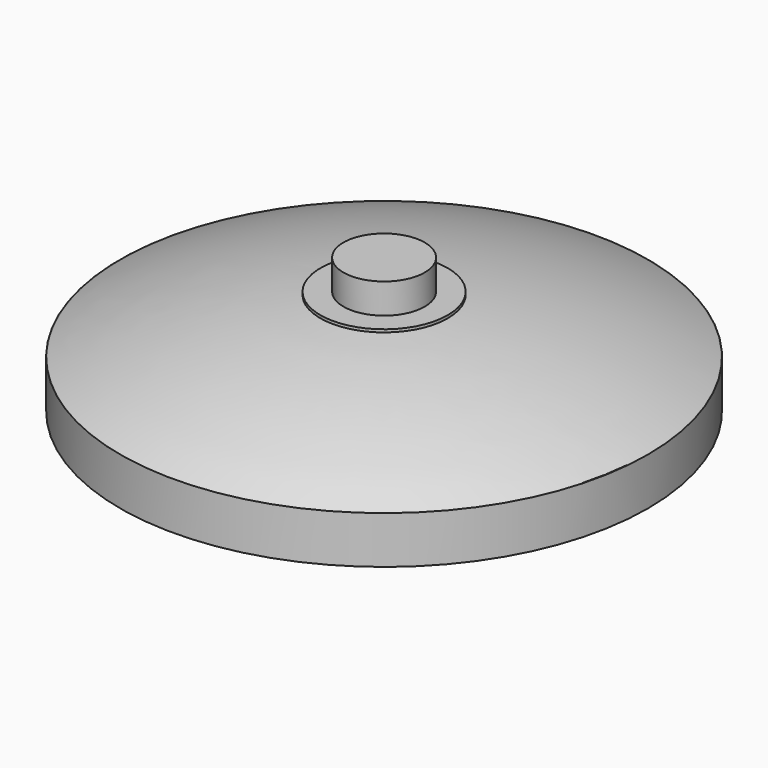
from build123d import *

# Parameters (mm, degrees)
F0_R      = 15.8369
F1_DEPTH  = 2.8448
F6_R      = 2.4384
F7_DEPTH  = 1.8034
F8_R      = 3.6576
F9_DEPTH  = 5.08
F10_T     = -0.889
F12_R     = 3.8227
F13_DEPTH = 6.2992
F14_R     = 1.016
F15_DEPTH = 6.858
F16_R     = 2.3876
F17_DEPTH = 5.1562
F18_R     = 3.8227
F19_DEPTH = 2.0574
F20_R     = 3.2258
F20_R_2   = 2.3876
F21_DEPTH = 2.0574


with BuildPart() as f1:
    # F0 (on Top) → F1 (new body)
    with BuildSketch(Plane.XY):
        Circle(F0_R)
    extrude(amount=-F1_DEPTH)

    # F2 (on Front) → F4 (revolve)
    with BuildSketch(Plane.XZ):
        with BuildLine():
            Line((0, 0), (0, 3.4544))
            ThreePointArc((0, 3.4544), (-8.094207, 2.617995), (-15.798872, 0))
            Line((-15.798872, 0), (0, 0))
        make_face()
    revolve(axis=Axis((0, 0, -5.96416), (0, 0, -1)))



with BuildPart() as f7:
    # F6 (on offset) → F7 (new body)
    with BuildSketch(Plane.XY.offset(3.4544)):
        Circle(F6_R)
    extrude(amount=F7_DEPTH)


with BuildPart() as f1_1:
    add(f1.part)

    add(f7.part)  # F9 merges F7
    # F8 (on offset) → F9 (join)
    with BuildSketch(Plane.XY.offset(3.4544)):
        Circle(F8_R)
    extrude(amount=-F9_DEPTH)

    # F10
    f10_openings = [f1_1.faces().sort_by_distance(p)[0] for p in [
        (0, 0, -2.8448),
    ]]
    offset(amount=F10_T, openings=f10_openings)

    # F12 (on offset) → F13 (join)
    with BuildSketch(Plane(origin=(0, 0, -2.8448), x_dir=(1, 0, 0), z_dir=(0, 0, -1))):
        Circle(F12_R)
    extrude(amount=-F13_DEPTH)

    # F14 (on face) → F15 (cut)
    with BuildSketch(Plane(origin=(0, 0, -2.8448), x_dir=(1, 0, 0), z_dir=(0, 0, -1))):
        Circle(F14_R)
    extrude(amount=-F15_DEPTH, mode=Mode.SUBTRACT)

    # F16 (on face) → F17 (cut)
    with BuildSketch(Plane(origin=(0, 0, -2.8448), x_dir=(1, 0, 0), z_dir=(0, 0, -1))):
        Circle(F16_R)
    extrude(amount=-F17_DEPTH, mode=Mode.SUBTRACT)

    # F18 (on offset) → F19 (cut)
    with BuildSketch(Plane(origin=(0, 0, -2.8448), x_dir=(1, 0, 0), z_dir=(0, 0, -1))):
        Circle(F18_R)
    extrude(amount=-F19_DEPTH, mode=Mode.SUBTRACT)

    # F20 (on offset) → F21 (join)
    with BuildSketch(Plane(origin=(0, 0, -2.8448), x_dir=(1, 0, 0), z_dir=(0, 0, -1))):
        Circle(F20_R)
        Circle(F20_R_2, mode=Mode.SUBTRACT)
    extrude(amount=-F21_DEPTH)


solid = f1_1.part
